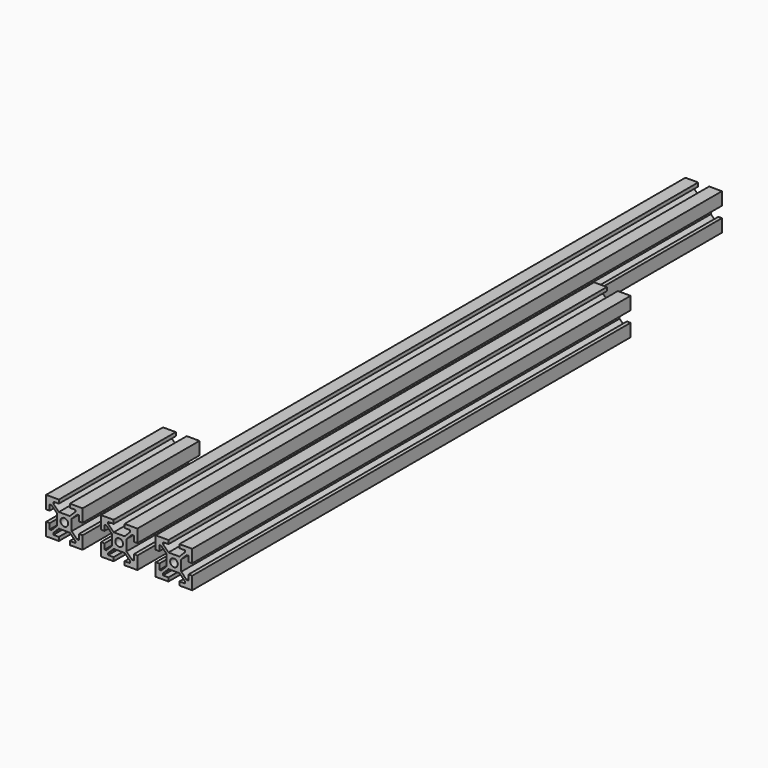
from build123d import *

# Parameters (mm, degrees)
F0_R     = 2.1
F1_DEPTH = 80
F3_DEPTH = 300
F5_DEPTH = 400


with BuildPart() as f1:
    # F0 (on Front) → F1 (new body)
    with BuildSketch(Plane.XZ):
        Polygon((3, 4), (0, 4), (-3, 4), (-6, 7), (-6, 8), (-3, 8), (-3, 10), (-10, 10), (-10, 3), (-8, 3), (-8, 6), (-7, 6), (-4, 3), (-4, 0), (-4, -3), (-7, -6), (-8, -6), (-8, -3), (-10, -3), (-10, -10), (-3, -10), (-3, -8), (-6, -8), (-6, -7), (-3, -4), (0, -4), (3, -4), (6, -7), (6, -8), (3, -8), (3, -10), (10, -10), (10, -3), (8, -3), (8, -6), (7, -6), (4, -3), (4, 0), (4, 3), (7, 6), (8, 6), (8, 3), (10, 3), (10, 10), (3, 10), (3, 8), (6, 8), (6, 7), align=None)
        Circle(F0_R, mode=Mode.SUBTRACT)
    extrude(amount=-F1_DEPTH)


with BuildPart() as f1_1:
    # F2: moved
    add(f1.part.moved(Location((-30, 0, 0))))


with BuildPart() as f3:
    # F0 (on Front) → F3 (new body)
    with BuildSketch(Plane.XZ):
        Polygon((3, 4), (0, 4), (-3, 4), (-6, 7), (-6, 8), (-3, 8), (-3, 10), (-10, 10), (-10, 3), (-8, 3), (-8, 6), (-7, 6), (-4, 3), (-4, 0), (-4, -3), (-7, -6), (-8, -6), (-8, -3), (-10, -3), (-10, -10), (-3, -10), (-3, -8), (-6, -8), (-6, -7), (-3, -4), (0, -4), (3, -4), (6, -7), (6, -8), (3, -8), (3, -10), (10, -10), (10, -3), (8, -3), (8, -6), (7, -6), (4, -3), (4, 0), (4, 3), (7, 6), (8, 6), (8, 3), (10, 3), (10, 10), (3, 10), (3, 8), (6, 8), (6, 7), align=None)
        Circle(F0_R, mode=Mode.SUBTRACT)
    extrude(amount=-F3_DEPTH)


with BuildPart() as f3_1:
    # F4: moved
    add(f3.part.moved(Location((30, 0, 0))))


with BuildPart() as f5:
    # F0 (on Front) → F5 (new body)
    with BuildSketch(Plane.XZ):
        Polygon((3, 4), (0, 4), (-3, 4), (-6, 7), (-6, 8), (-3, 8), (-3, 10), (-10, 10), (-10, 3), (-8, 3), (-8, 6), (-7, 6), (-4, 3), (-4, 0), (-4, -3), (-7, -6), (-8, -6), (-8, -3), (-10, -3), (-10, -10), (-3, -10), (-3, -8), (-6, -8), (-6, -7), (-3, -4), (0, -4), (3, -4), (6, -7), (6, -8), (3, -8), (3, -10), (10, -10), (10, -3), (8, -3), (8, -6), (7, -6), (4, -3), (4, 0), (4, 3), (7, 6), (8, 6), (8, 3), (10, 3), (10, 10), (3, 10), (3, 8), (6, 8), (6, 7), align=None)
        Circle(F0_R, mode=Mode.SUBTRACT)
    extrude(amount=-F5_DEPTH)


solid = Compound([f1_1.part, f3_1.part, f5.part])
